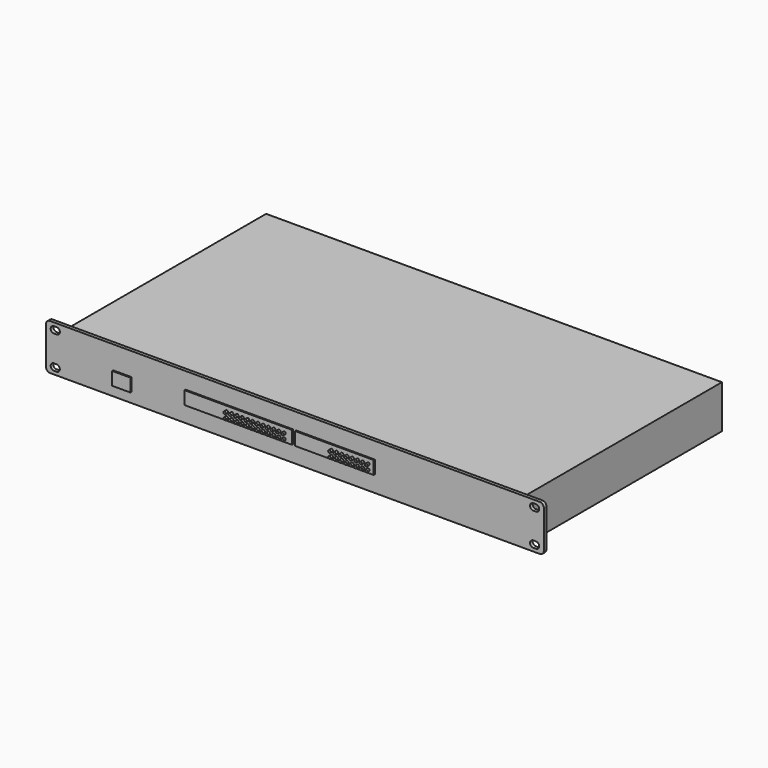
from build123d import *

# Parameters (mm, degrees)
F1_DEPTH = 3.175
F2_W     = 441.96
F2_H     = 41.91
F3_DEPTH = 238.125
F4_W     = 6.350547
F4_H     = 2.116855
F4_W_2   = 5.821347
F4_H_2   = 2.428384
F4_W_3   = 4.572
F4_H_3   = 7.62
F5_DEPTH = 7.62
F6_W     = 104.14
F6_H     = 12.7
F6_W_2   = 76.2
F6_W_3   = 17.78
F7_DEPTH = 1.27
F8_R     = 1.27
F9_DEPTH = 2.54


with BuildPart() as f1:
    # F0 (on Front) → F1 (new body)
    with BuildSketch(Plane.XZ):
        with BuildLine():
            Line((237.49, 22.225), (-237.49, 22.225))
            ThreePointArc((-237.49, 22.225), (-240.184077, 21.109077), (-241.3, 18.415))
            Line((-241.3, 18.415), (-241.3, -18.415))
            ThreePointArc((-241.3, -18.415), (-240.184077, -21.109077), (-237.49, -22.225))
            Line((-237.49, -22.225), (237.49, -22.225))
            ThreePointArc((237.49, -22.225), (240.184077, -21.109077), (241.3, -18.415))
            Line((241.3, -18.415), (241.3, 18.415))
            ThreePointArc((241.3, 18.415), (240.184077, 21.109077), (237.49, 22.225))
        make_face()
        with BuildLine():
            Line((-231.14, -19.05), (-233.68, -19.05))
            ThreePointArc((-233.68, -19.05), (-236.855, -15.875), (-233.68, -12.7))
            Line((-233.68, -12.7), (-231.14, -12.7))
            ThreePointArc((-231.14, -12.7), (-227.965, -15.875), (-231.14, -19.05))
        make_face(mode=Mode.SUBTRACT)
        with BuildLine():
            Line((231.14, -12.7), (233.68, -12.7))
            ThreePointArc((233.68, -12.7), (236.855, -15.875), (233.68, -19.05))
            Line((233.68, -19.05), (231.14, -19.05))
            ThreePointArc((231.14, -19.05), (227.965, -15.875), (231.14, -12.7))
        make_face(mode=Mode.SUBTRACT)
        with BuildLine():
            ThreePointArc((-233.68, 12.7), (-236.855, 15.875), (-233.68, 19.05))
            Line((-233.68, 19.05), (-231.14, 19.05))
            ThreePointArc((-231.14, 19.05), (-227.965, 15.875), (-231.14, 12.7))
            Line((-231.14, 12.7), (-233.68, 12.7))
        make_face(mode=Mode.SUBTRACT)
        with BuildLine():
            ThreePointArc((233.68, 19.05), (236.855, 15.875), (233.68, 12.7))
            Line((233.68, 12.7), (231.14, 12.7))
            ThreePointArc((231.14, 12.7), (227.965, 15.875), (231.14, 19.05))
            Line((231.14, 19.05), (233.68, 19.05))
        make_face(mode=Mode.SUBTRACT)
    extrude(amount=F1_DEPTH)

    # F2 (on face) → F3 (join)
    with BuildSketch(Plane(origin=(0, 0, 0), x_dir=(-1, 0, 0), z_dir=(0, 1, 0))):
        Rectangle(F2_W, F2_H)
    extrude(amount=F3_DEPTH)

    # F4 (on face) → F5 (cut)
    with BuildSketch(Plane(origin=(0, 238.125, 0), x_dir=(-1, 0, 0), z_dir=(0, 1, 0))):
        Polygon((-197.20909, 12.7), (-210.476204, 12.7), (-210.476204, -12.7), (-197.20909, -12.7), (-191.426204, -6.174478), (-191.426204, 6.174478), align=None)
        with Locations((-201.955303, -5.844812)):
            Rectangle(F4_W, F4_H, mode=Mode.SUBTRACT)
        with Locations((-197.060079, 0)):
            Rectangle(F4_W_2, F4_H_2, mode=Mode.SUBTRACT)
        with Locations((-201.955303, 5.844812)):
            Rectangle(F4_W, F4_H, mode=Mode.SUBTRACT)
        with Locations((-157.334807, 10.620724)):
            Rectangle(F4_W_3, F4_H_3)
        with Locations((-152.254807, 10.620724)):
            Rectangle(F4_W_3, F4_H_3)
        with Locations((-147.174807, 10.620724)):
            Rectangle(F4_W_3, F4_H_3)
        with Locations((-131.934807, 10.620724)):
            Rectangle(F4_W_3, F4_H_3)
        with Locations((-126.854807, 10.620724)):
            Rectangle(F4_W_3, F4_H_3)
        with Locations((-121.774807, 10.620724)):
            Rectangle(F4_W_3, F4_H_3)
        with Locations((-106.534807, 10.620724)):
            Rectangle(F4_W_3, F4_H_3)
        with Locations((-101.454807, 10.620724)):
            Rectangle(F4_W_3, F4_H_3)
        with Locations((-96.374807, 10.620724)):
            Rectangle(F4_W_3, F4_H_3)
        with Locations((-81.134807, 10.620724)):
            Rectangle(F4_W_3, F4_H_3)
        with Locations((-76.054807, 10.620724)):
            Rectangle(F4_W_3, F4_H_3)
        with Locations((-70.974807, 10.620724)):
            Rectangle(F4_W_3, F4_H_3)
        with Locations((-55.734807, 10.620724)):
            Rectangle(F4_W_3, F4_H_3)
        with Locations((-50.654807, 10.620724)):
            Rectangle(F4_W_3, F4_H_3)
        with Locations((-45.574807, 10.620724)):
            Rectangle(F4_W_3, F4_H_3)
        with Locations((-40.494807, 10.620724)):
            Rectangle(F4_W_3, F4_H_3)
        with Locations((-35.414807, 10.620724)):
            Rectangle(F4_W_3, F4_H_3)
        with Locations((-30.334807, 10.620724)):
            Rectangle(F4_W_3, F4_H_3)
        with Locations((-4.934807, 10.620724)):
            Rectangle(F4_W_3, F4_H_3)
        with Locations((0.145193, 10.620724)):
            Rectangle(F4_W_3, F4_H_3)
        with Locations((5.225193, 10.620724)):
            Rectangle(F4_W_3, F4_H_3)
        with Locations((10.305193, 10.620724)):
            Rectangle(F4_W_3, F4_H_3)
        with Locations((15.385193, 10.620724)):
            Rectangle(F4_W_3, F4_H_3)
        with Locations((20.465193, 10.620724)):
            Rectangle(F4_W_3, F4_H_3)
        with Locations((35.705193, 10.620724)):
            Rectangle(F4_W_3, F4_H_3)
        with Locations((40.785193, 10.620724)):
            Rectangle(F4_W_3, F4_H_3)
        with Locations((45.865193, 10.620724)):
            Rectangle(F4_W_3, F4_H_3)
        with Locations((50.945193, 10.620724)):
            Rectangle(F4_W_3, F4_H_3)
        with Locations((56.025193, 10.620724)):
            Rectangle(F4_W_3, F4_H_3)
        with Locations((61.105193, 10.620724)):
            Rectangle(F4_W_3, F4_H_3)
        with Locations((76.345193, 10.620724)):
            Rectangle(F4_W_3, F4_H_3)
        with Locations((81.425193, 10.620724)):
            Rectangle(F4_W_3, F4_H_3)
        with Locations((86.505193, 10.620724)):
            Rectangle(F4_W_3, F4_H_3)
        with Locations((91.585193, 10.620724)):
            Rectangle(F4_W_3, F4_H_3)
        with Locations((96.665193, 10.620724)):
            Rectangle(F4_W_3, F4_H_3)
        with Locations((101.745193, 10.620724)):
            Rectangle(F4_W_3, F4_H_3)
        with Locations((116.985193, 10.620724)):
            Rectangle(F4_W_3, F4_H_3)
        with Locations((122.065193, 10.620724)):
            Rectangle(F4_W_3, F4_H_3)
        with Locations((127.145193, 10.620724)):
            Rectangle(F4_W_3, F4_H_3)
        with Locations((132.225193, 10.620724)):
            Rectangle(F4_W_3, F4_H_3)
        with Locations((137.305193, 10.620724)):
            Rectangle(F4_W_3, F4_H_3)
        with Locations((142.385193, 10.620724)):
            Rectangle(F4_W_3, F4_H_3)
        with Locations((86.505193, -10.620724)):
            Rectangle(F4_W_3, F4_H_3)
        with Locations((81.425193, -10.620724)):
            Rectangle(F4_W_3, F4_H_3)
        with Locations((10.305193, -10.620724)):
            Rectangle(F4_W_3, F4_H_3)
        with Locations((5.225193, -10.620724)):
            Rectangle(F4_W_3, F4_H_3)
        with Locations((122.065193, -10.620724)):
            Rectangle(F4_W_3, F4_H_3)
        with Locations((-40.494807, -10.620724)):
            Rectangle(F4_W_3, F4_H_3)
        with Locations((127.145193, -10.620724)):
            Rectangle(F4_W_3, F4_H_3)
        with Locations((91.585193, -10.620724)):
            Rectangle(F4_W_3, F4_H_3)
        with Locations((15.385193, -10.620724)):
            Rectangle(F4_W_3, F4_H_3)
        with Locations((0.145193, -10.620724)):
            Rectangle(F4_W_3, F4_H_3)
        with Locations((-4.934807, -10.620724)):
            Rectangle(F4_W_3, F4_H_3)
        with Locations((-76.054807, -10.620724)):
            Rectangle(F4_W_3, F4_H_3)
        with Locations((-81.134807, -10.620724)):
            Rectangle(F4_W_3, F4_H_3)
        with Locations((-45.574807, -10.620724)):
            Rectangle(F4_W_3, F4_H_3)
        with Locations((137.305193, -10.620724)):
            Rectangle(F4_W_3, F4_H_3)
        with Locations((132.225193, -10.620724)):
            Rectangle(F4_W_3, F4_H_3)
        with Locations((56.025193, -10.620724)):
            Rectangle(F4_W_3, F4_H_3)
        with Locations((50.945193, -10.620724)):
            Rectangle(F4_W_3, F4_H_3)
        with Locations((35.705193, -10.620724)):
            Rectangle(F4_W_3, F4_H_3)
        with Locations((-35.414807, -10.620724)):
            Rectangle(F4_W_3, F4_H_3)
        with Locations((-55.734807, -10.620724)):
            Rectangle(F4_W_3, F4_H_3)
        with Locations((-101.454807, -10.620724)):
            Rectangle(F4_W_3, F4_H_3)
        with Locations((-131.934807, -10.620724)):
            Rectangle(F4_W_3, F4_H_3)
        with Locations((101.745193, -10.620724)):
            Rectangle(F4_W_3, F4_H_3)
        with Locations((-157.334807, -10.620724)):
            Rectangle(F4_W_3, F4_H_3)
        with Locations((142.385193, -10.620724)):
            Rectangle(F4_W_3, F4_H_3)
        with Locations((96.665193, -10.620724)):
            Rectangle(F4_W_3, F4_H_3)
        with Locations((61.105193, -10.620724)):
            Rectangle(F4_W_3, F4_H_3)
        with Locations((45.865193, -10.620724)):
            Rectangle(F4_W_3, F4_H_3)
        with Locations((40.785193, -10.620724)):
            Rectangle(F4_W_3, F4_H_3)
        with Locations((-30.334807, -10.620724)):
            Rectangle(F4_W_3, F4_H_3)
        with Locations((-50.654807, -10.620724)):
            Rectangle(F4_W_3, F4_H_3)
        with Locations((-106.534807, -10.620724)):
            Rectangle(F4_W_3, F4_H_3)
        with Locations((-126.854807, -10.620724)):
            Rectangle(F4_W_3, F4_H_3)
        with Locations((-152.254807, -10.620724)):
            Rectangle(F4_W_3, F4_H_3)
        with Locations((-96.374807, -10.620724)):
            Rectangle(F4_W_3, F4_H_3)
        with Locations((-147.174807, -10.620724)):
            Rectangle(F4_W_3, F4_H_3)
        with Locations((116.985193, -10.620724)):
            Rectangle(F4_W_3, F4_H_3)
        with Locations((76.345193, -10.620724)):
            Rectangle(F4_W_3, F4_H_3)
        with Locations((20.465193, -10.620724)):
            Rectangle(F4_W_3, F4_H_3)
        with Locations((-70.974807, -10.620724)):
            Rectangle(F4_W_3, F4_H_3)
        with Locations((-121.774807, -10.620724)):
            Rectangle(F4_W_3, F4_H_3)
    extrude(amount=-F5_DEPTH, mode=Mode.SUBTRACT)

    # F6 (on face) → F7 (join)
    with BuildSketch(Plane.XZ.offset(3.175)):
        with Locations((-53.886354, 0)):
            Rectangle(F6_W, F6_H)
        with Locations((39.292134, 0)):
            Rectangle(F6_W_2, F6_H)
        with Locations((-167.441818, -6.35)):
            Rectangle(F6_W_3, F6_H)
    extrude(amount=F7_DEPTH)

    # F8 (on face) → F9 (join)
    with BuildSketch(Plane.XZ.offset(4.445)):
        with Locations((-65.041183, 1.451679)):
            Circle(F8_R)
        with Locations((-65.041183, -3.628321)):
            Circle(F8_R)
        with Locations((-59.961183, 1.451679)):
            Circle(F8_R)
        with Locations((-59.961183, -3.628321)):
            Circle(F8_R)
        with Locations((-54.881183, 1.451679)):
            Circle(F8_R)
        with Locations((-54.881183, -3.628321)):
            Circle(F8_R)
        with Locations((-49.801183, 1.451679)):
            Circle(F8_R)
        with Locations((-49.801183, -3.628321)):
            Circle(F8_R)
        with Locations((-44.721183, 1.451679)):
            Circle(F8_R)
        with Locations((-44.721183, -3.628321)):
            Circle(F8_R)
        with Locations((-39.641183, 1.451679)):
            Circle(F8_R)
        with Locations((-39.641183, -3.628321)):
            Circle(F8_R)
        with Locations((-34.561183, 1.451679)):
            Circle(F8_R)
        with Locations((-34.561183, -3.628321)):
            Circle(F8_R)
        with Locations((-29.481183, 1.451679)):
            Circle(F8_R)
        with Locations((-29.481183, -3.628321)):
            Circle(F8_R)
        with Locations((-24.401183, 1.451679)):
            Circle(F8_R)
        with Locations((-24.401183, -3.628321)):
            Circle(F8_R)
        with Locations((-19.321183, 1.451679)):
            Circle(F8_R)
        with Locations((-19.321183, -3.628321)):
            Circle(F8_R)
        with Locations((-14.241183, 1.451679)):
            Circle(F8_R)
        with Locations((-14.241183, -3.628321)):
            Circle(F8_R)
        with Locations((-9.161183, 1.451679)):
            Circle(F8_R)
        with Locations((-9.161183, -3.628321)):
            Circle(F8_R)
        with Locations((36.558817, 1.451679)):
            Circle(F8_R)
        with Locations((36.558817, -3.628321)):
            Circle(F8_R)
        with Locations((41.638817, 1.451679)):
            Circle(F8_R)
        with Locations((41.638817, -3.628321)):
            Circle(F8_R)
        with Locations((46.718817, 1.451679)):
            Circle(F8_R)
        with Locations((46.718817, -3.628321)):
            Circle(F8_R)
        with Locations((51.798817, 1.451679)):
            Circle(F8_R)
        with Locations((51.798817, -3.628321)):
            Circle(F8_R)
        with Locations((56.878817, 1.451679)):
            Circle(F8_R)
        with Locations((56.878817, -3.628321)):
            Circle(F8_R)
        with Locations((61.958817, 1.451679)):
            Circle(F8_R)
        with Locations((61.958817, -3.628321)):
            Circle(F8_R)
        with Locations((67.038817, 1.451679)):
            Circle(F8_R)
        with Locations((67.038817, -3.628321)):
            Circle(F8_R)
        with Locations((72.118817, 1.451679)):
            Circle(F8_R)
        with Locations((72.118817, -3.628321)):
            Circle(F8_R)
    extrude(amount=F9_DEPTH)


solid = f1.part
